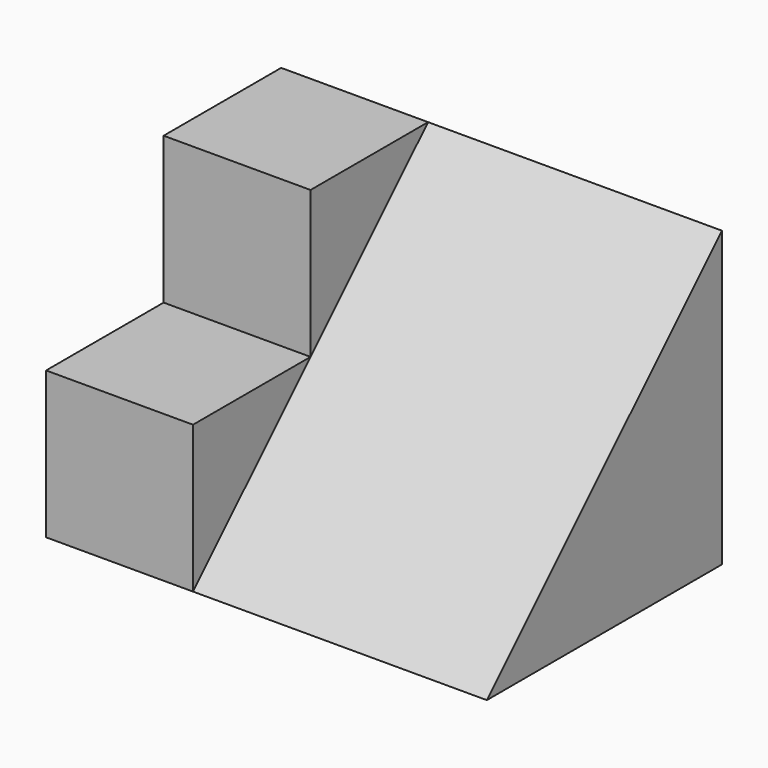
from build123d import *

# Parameters (mm, degrees)
F1_DEPTH = 152.4
F3_DEPTH = 50.8
F4_W     = 50.8
F4_H     = 50.8
F5_DEPTH = 50.8


with BuildPart() as f1:
    # F0 (on Right) → F1 (new body)
    with BuildSketch(Plane.YZ):
        Polygon((101.6, 101.6), (0, 0), (101.6, 0), align=None)
    extrude(amount=F1_DEPTH)

    # F2 (on face) → F3 (join)
    with BuildSketch(Plane(origin=(0, 0, 0), x_dir=(0, -1, 0), z_dir=(-1, 0, 0))):
        Polygon((0, 101.6), (-101.6, 101.6), (0, 0), align=None)
    extrude(amount=-F3_DEPTH)

    # F4 (on face) → F5 (cut)
    with BuildSketch(Plane(origin=(0, 0, 0), x_dir=(0, -1, 0), z_dir=(-1, 0, 0))):
        with Locations((-25.4, 76.2)):
            Rectangle(F4_W, F4_H)
    extrude(amount=-F5_DEPTH, mode=Mode.SUBTRACT)


solid = f1.part
